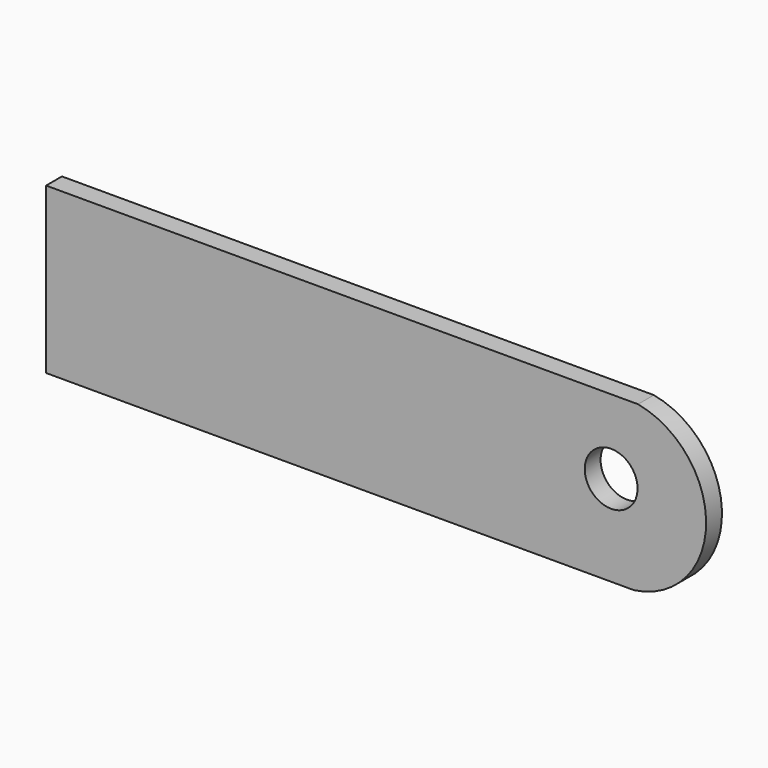
from build123d import *

# Parameters (mm, degrees)
F0_W      = 100
F0_H      = 25
F1_DEPTH  = 3
F3_DEPTH  = 3.001
F5_R      = 4
F6_DEPTH  = 25
F6_FACE_R = 4
F7_DEPTH  = 28.001


with BuildPart() as f1:
    # F0 (on Front) → F1 (new body)
    with BuildSketch(Plane.XZ):
        with Locations((-45.349181, -53.322954)):
            Rectangle(F0_W, F0_H)
    extrude(amount=F1_DEPTH)

    # F2 (on face) → F3 (cut, through all)
    with BuildSketch(Plane.XZ.offset(3)):
        with BuildLine():
            ThreePointArc((-5.680051, -40.822954), (4.633267, -53.580968), (-6.287596, -65.822954))
            Line((-6.287596, -65.822954), (4.650819, -65.822954))
            Line((4.650819, -65.822954), (4.650819, -40.822954))
            Line((4.650819, -40.822954), (-5.680051, -40.822954))
        make_face()
    extrude(amount=-F3_DEPTH, mode=Mode.SUBTRACT)

    # F5 (on face) → F6 (join)
    with BuildSketch(Plane.XZ.offset(3)):
        with Locations((-9.752688, -52.094381)):
            Circle(F5_R)
    extrude(amount=F6_DEPTH)

    # F6_face (on face) → F7 (cut, through all)
    with BuildSketch(Plane(origin=(-9.752688, -28, -52.094381), x_dir=(1, 0, 0), z_dir=(0, -1, 0))):
        Circle(F6_FACE_R)
    extrude(amount=-F7_DEPTH, mode=Mode.SUBTRACT)


solid = f1.part
